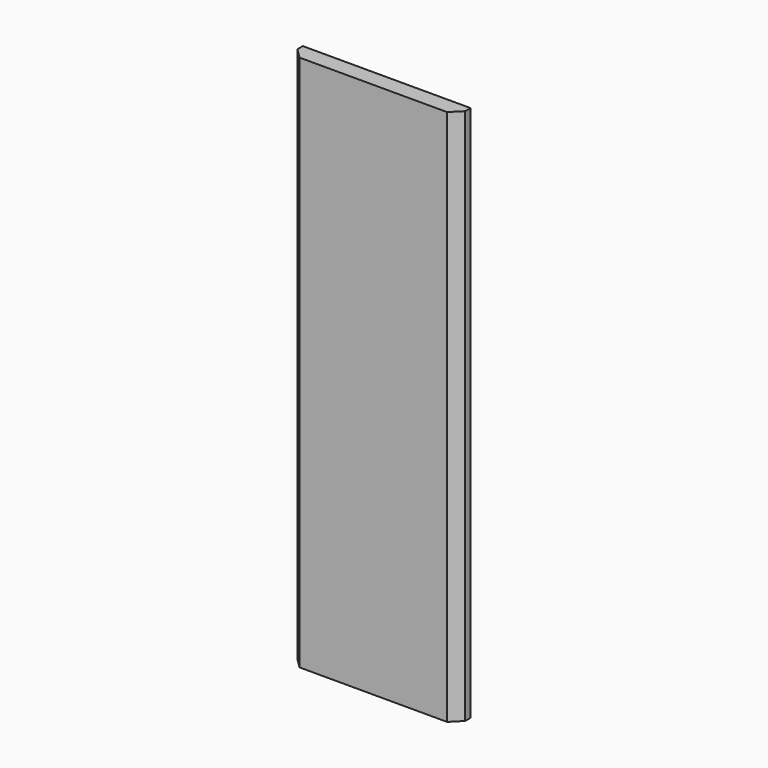
from build123d import *

# Parameters (mm, degrees)
F0_W     = 31.75
F0_H     = 101.6
F1_DEPTH = 3.175
F2_SIZE  = 1.905


with BuildPart() as f1:
    # F0 (on Front) → F1 (new body)
    with BuildSketch(Plane.XZ):
        with Locations((15.875, 50.8)):
            Rectangle(F0_W, F0_H)
    extrude(amount=F1_DEPTH)

    # F2
    f2_edges = [f1.edges().sort_by_distance(p)[0] for p in [
        (0, -3.175, 50.8),
        (31.75, -3.175, 50.8),
    ]]
    chamfer(f2_edges, length=F2_SIZE)


solid = f1.part
